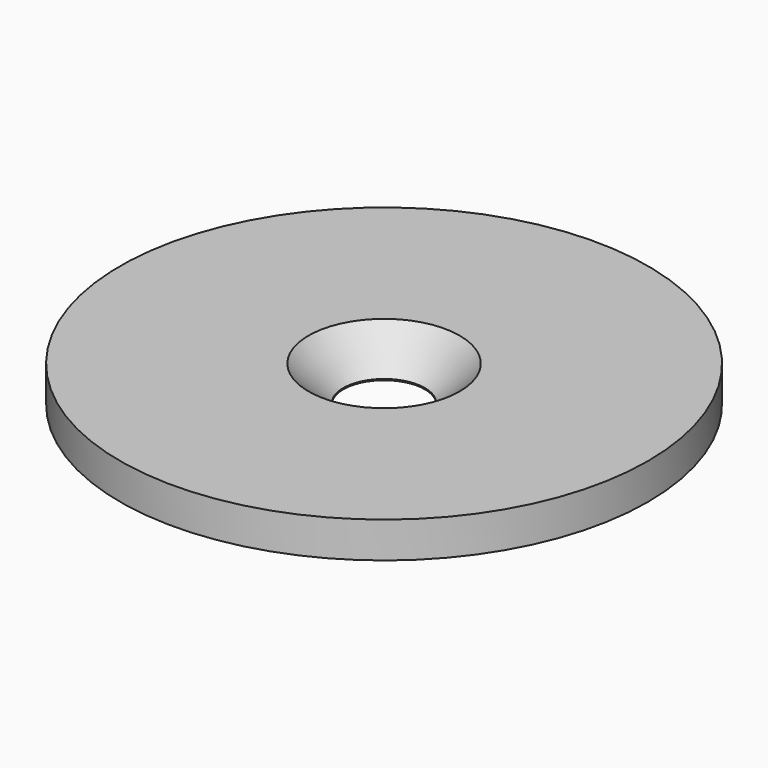
from build123d import *

# Parameters (mm, degrees)
SKETCH_R     = 11
SKETCH_R_2   = 1.7
PAD_DEPTH    = 1.5
CHAMFER_SIZE = 1.45


with BuildPart() as part:
    # Sketch → Pad (new body)
    with BuildSketch(Plane.XY):
        Circle(SKETCH_R)
        Circle(SKETCH_R_2, mode=Mode.SUBTRACT)
    extrude(amount=PAD_DEPTH)

    # Chamfer
    chamfer_edges = [part.edges().sort_by_distance(p)[0] for p in [
        (-1.7, 0, 1.5),
    ]]
    chamfer(chamfer_edges, length=CHAMFER_SIZE)


solid = part.part
